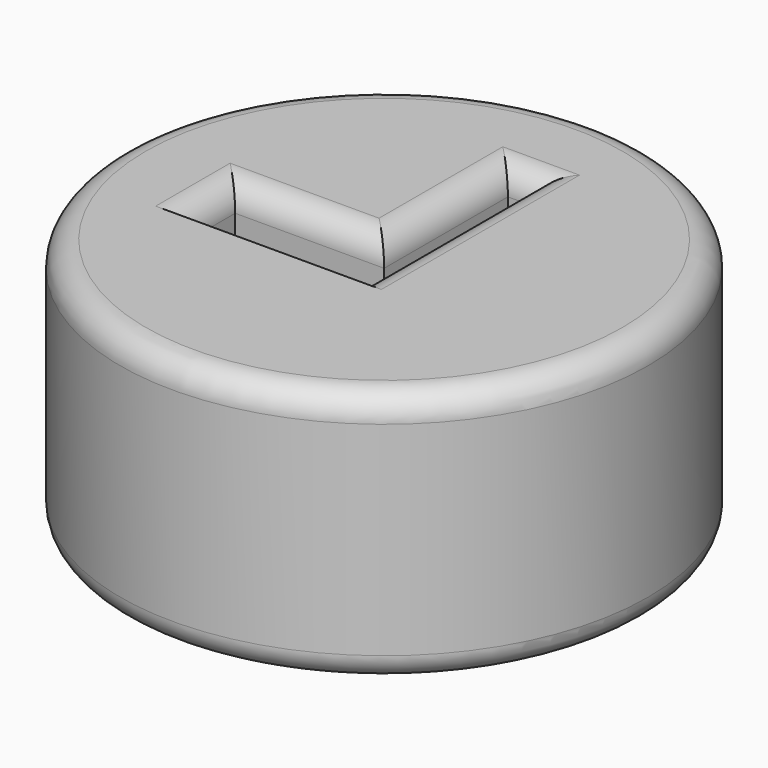
from build123d import *

# Parameters (mm, degrees)
F0_R     = 52.662502
F1_DEPTH = 50.8
F2_R     = 5.08


with BuildPart() as f1:
    # F0 (on Top) → F1 (new body)
    with BuildSketch(Plane.XY):
        Circle(F0_R)
        Polygon((5.148946, 0), (5.148946, -13.476888), (-29.711636, -13.476888), (-29.711636, 0), (0, 0), (0, 30.866284), (5.148946, 30.866284), align=None, mode=Mode.SUBTRACT)
    extrude(amount=F1_DEPTH)

    # F2
    f2_edges = [f1.edges().sort_by_distance(p)[0] for p in [
        (-52.662502, 0, 50.8),
        (-14.855818, 0, 50.8),
        (-29.711636, -6.738444, 50.8),
        (5.148946, 8.694698, 50.8),
        (0, 15.433142, 50.8),
        (2.574473, 30.866284, 50.8),
        (-52.662502, 0, 0),
        (-12.281345, -13.476888, 0),
        (-29.711636, -6.738444, 0),
        (-14.855818, 0, 0),
        (0, 15.433142, 0),
        (2.574473, 30.866284, 0),
        (5.148946, 8.694698, 0),
    ]]
    fillet(f2_edges, radius=F2_R)


solid = f1.part
